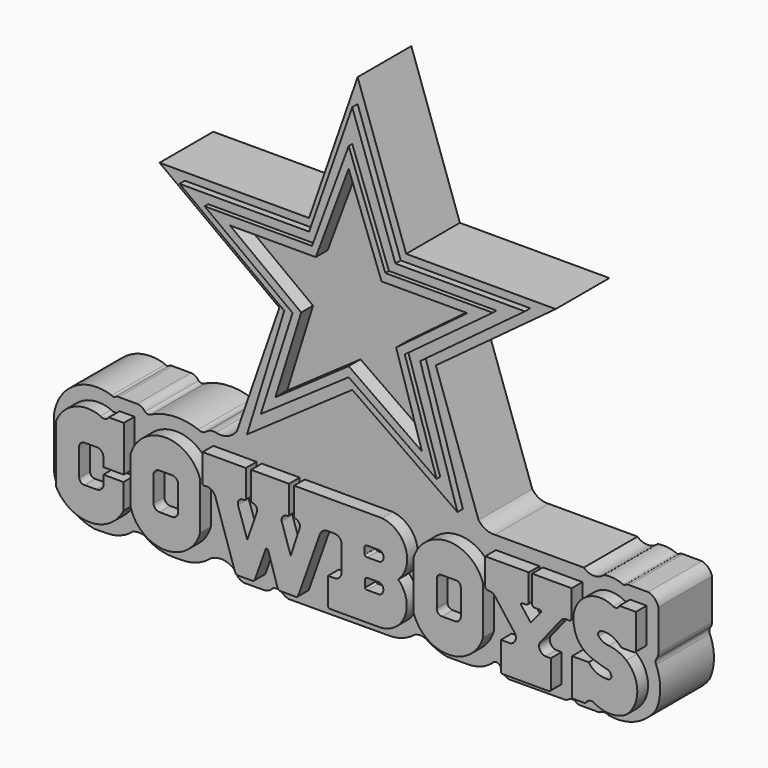
from build123d import *

# Parameters (mm, degrees)
F5_DEPTH = 15
F6_DEPTH = 18
F7_DEPTH = 16.5
F8_DEPTH = 17.5
F9_START = 14.2
F9_DEPTH = 19.6


with BuildPart() as f5:
    # F3 (on Front) → F5 (new body)
    with BuildSketch(Plane.XZ):
        with BuildLine():
            Line((-44.2463718355, 21.1842991412), (-17.4745600671, 1.4069249155))
            Line((-17.4745600671, 1.4069249155), (-26.9419997931, -25.9260144085))
            ThreePointArc((-26.9419997931, -25.9260144085), (-29.0212499495, -27.6129881973), (-31.6936150193, -27.7792010456))
            ThreePointArc((-31.6936150193, -27.7792010456), (-32.9350414356, -27.8369391774), (-34.0111888945, -28.4585338086))
            ThreePointArc((-34.0111888945, -28.4585338086), (-34.7994435579, -28.6722011969), (-35.5876982212, -28.4585338086))
            ThreePointArc((-35.5876982212, -28.4585338086), (-40.8345683921, -27.6309623365), (-46.0010245442, -28.8647580892))
            ThreePointArc((-46.0010245442, -28.8647580892), (-46.7619951814, -29.1214279975), (-47.5229658186, -28.8647580892))
            ThreePointArc((-47.5229658186, -28.8647580892), (-48.2576121674, -28.1309045613), (-49.2606647313, -27.8623308986))
            Line((-49.2606647313, -27.8623308986), (-53.3446930349, -27.8623308986))
            ThreePointArc((-53.3446930349, -27.8623308986), (-53.7626940773, -27.8805112246), (-54.1413202882, -28.0585493892))
            ThreePointArc((-54.1413202882, -28.0585493892), (-54.5440483838, -28.1958925763), (-54.9467764795, -28.0585493892))
            ThreePointArc((-54.9467764795, -28.0585493892), (-63.2106117888, -28.8825229163), (-67.8027644753, -35.8022078872))
            Line((-67.8027644753, -35.8022078872), (-67.8027644753, -47.2518876195))
            ThreePointArc((-67.8027644753, -47.2518876195), (-67.4575479524, -48.8194648934), (-66.792331636, -50.2802729607))
            ThreePointArc((-66.792331636, -50.2802729607), (-63.3486567659, -53.7234123447), (-58.8392931293, -55.5618206297))
            Line((-58.8392931293, -55.5618206297), (-56.1703634099, -55.5314470928))
            ThreePointArc((-56.1703634099, -55.5314470928), (-52.9987397707, -54.9658834712), (-50.2290800214, -53.3202700317))
            ThreePointArc((-50.2290800214, -53.3202700317), (-48.9520251918, -53.036502976), (-47.6566031575, -53.2189160585))
            ThreePointArc((-47.6566031575, -53.2189160585), (-44.5746266962, -54.8202808439), (-41.1440137075, -55.3623533538))
            Line((-41.1440137075, -55.3623533538), (-39.5355157692, -55.3550728315))
            ThreePointArc((-39.5355157692, -55.3550728315), (-35.9503744169, -54.7625582206), (-32.8145548701, -52.9265441))
            ThreePointArc((-32.8145548701, -52.9265441), (-29.9678585209, -52.2913183396), (-27.352778241, -53.5830408335))
            ThreePointArc((-27.352778241, -53.5830408335), (-26.6109824256, -54.6861544233), (-25.4273346215, -55.2912151638))
            Line((-25.4273346215, -55.2912151638), (-20.7628569958, -55.2701024024))
            ThreePointArc((-20.7628569958, -55.2701024024), (-19.766352618, -54.9621039886), (-18.9678873867, -54.2910322547))
            ThreePointArc((-18.9678873867, -54.2910322547), (-18.0389201269, -54.065479917), (-17.109952867, -54.2910322547))
            ThreePointArc((-17.109952867, -54.2910322547), (-16.3671524458, -54.8406705745), (-15.5369723561, -55.2464485521))
            Line((-15.5369723561, -55.2464485521), (7.067101202, -55.1441360425))
            ThreePointArc((7.067101202, -55.1441360425), (10.0267122759, -54.6373267992), (12.6501927152, -53.1766749918))
            ThreePointArc((12.6501927152, -53.1766749918), (14.0218110755, -52.809419989), (15.3934294358, -53.1766749918))
            ThreePointArc((15.3934294358, -53.1766749918), (17.598221994, -54.3574916083), (19.9909692867, -55.0856389148))
            Line((19.9909692867, -55.0856389148), (24.403905933, -55.0656646999))
            ThreePointArc((24.403905933, -55.0656646999), (27.4480765658, -54.5813036637), (30.102904886, -53.0149489641))
            ThreePointArc((30.102904886, -53.0149489641), (30.9931114316, -52.5660694909), (31.8833179772, -53.0149489641))
            ThreePointArc((31.8833179772, -53.0149489641), (32.5488101456, -54.2925286105), (33.7902766783, -55.0231792982))
            Line((33.7902766783, -55.0231792982), (46.1623184383, -54.9671798944))
            ThreePointArc((46.1623184383, -54.9671798944), (46.7414950816, -54.8563344698), (47.2416616976, -54.543979466))
            ThreePointArc((47.2416616976, -54.543979466), (47.9723457247, -54.3463533606), (48.7030297518, -54.543979466))
            ThreePointArc((48.7030297518, -54.543979466), (49.1744320305, -54.8572306601), (49.7296415269, -54.9671798944))
            Line((49.7296415269, -54.9671798944), (53.2745718956, -54.9671798944))
            Line((53.2745718956, -54.9671798944), (53.7231452763, -54.9671798944))
            ThreePointArc((53.7231452763, -54.9671798944), (53.9803994303, -54.9391217786), (54.2255565524, -54.8562668264))
            ThreePointArc((54.2255565524, -54.8562668264), (55.1160853356, -54.579958108), (56.0066141188, -54.8562668264))
            ThreePointArc((56.0066141188, -54.8562668264), (62.0237797236, -54.1882307318), (66.6825696826, -50.3219366074))
            ThreePointArc((66.6825696826, -50.3219366074), (67.6059489193, -45.8939634264), (66.6825696826, -41.4659902453))
            ThreePointArc((66.6825696826, -41.4659902453), (66.5757001786, -40.9017279744), (66.6825696826, -40.3374657035))
            ThreePointArc((66.6825696826, -40.3374657035), (67.0450926713, -39.7575914562), (67.1717226505, -39.0855483711))
            Line((67.1717226505, -39.0855483711), (67.1717226505, -29.978139326))
            ThreePointArc((67.1717226505, -29.978139326), (66.3508856526, -28.5533882369), (64.9142935872, -27.7534555644))
            Line((64.9142935872, -27.7534555644), (60.6640912592, -27.7534555644))
            ThreePointArc((60.6640912592, -27.7534555644), (60.1656942741, -27.8256499285), (59.7269758582, -28.0729103833))
            ThreePointArc((59.7269758582, -28.0729103833), (59.5049038529, -28.1377310119), (59.2828318477, -28.0729103833))
            ThreePointArc((59.2828318477, -28.0729103833), (57.1850537701, -27.5177004874), (55.0171397626, -27.6129881973))
            ThreePointArc((55.0171397626, -27.6129881973), (52.7711641043, -28.4908563273), (50.525188446, -27.6129881973))
            Line((50.525188446, -27.6129881973), (30.6794699281, -27.6129881973))
            ThreePointArc((30.6794699281, -27.6129881973), (28.6262979704, -27.249333795), (27.0149055868, -25.9260144085))
            Line((27.0149055868, -25.9260144085), (17.4745600671, 1.4069249155))
            Line((17.4745600671, 1.4069249155), (44.2463718355, 21.1842991412))
            Line((44.2463718355, 21.1842991412), (10.8419051394, 21.1842991412))
            Line((10.8419051394, 21.1842991412), (0, 52.4180755019))
            Line((0, 52.4180755019), (-10.8419051394, 21.1842991412))
            Line((-10.8419051394, 21.1842991412), (-44.2463718355, 21.1842991412))
        make_face()
    extrude(amount=F5_DEPTH)

    # F4 (on Front) → F6 (join)
    with BuildSketch(Plane.XZ):
        with BuildLine():
            Line((-49.8352535069, -40.7587550581), (-49.8352535069, -30.5781438947))
            Line((-49.8352535069, -30.5781438947), (-53.1657449901, -30.5781438947))
            ThreePointArc((-53.1657449901, -30.5781438947), (-54.0305606764, -31.1585754602), (-55.0452843308, -30.9237502515))
            ThreePointArc((-55.0452843308, -30.9237502515), (-60.9550469183, -30.9852944242), (-65.0318264961, -35.2641902864))
            Line((-65.0318264961, -35.2641902864), (-65.0318264961, -47.8973351419))
            ThreePointArc((-65.0318264961, -47.8973351419), (-57.4713386595, -52.5908718293), (-49.9108508229, -47.8973351419))
            Line((-49.9108508229, -47.8973351419), (-49.9108508229, -42.2384478152))
            Line((-49.9108508229, -42.2384478152), (-54.3915741146, -42.2384478152))
            Line((-54.3915741146, -42.2384478152), (-54.3915741146, -44.5529930294))
            ThreePointArc((-54.3915741146, -44.5529930294), (-55.010072907, -45.3423955738), (-55.9642799199, -45.6509180367))
            Line((-55.9642799199, -45.6509180367), (-58.5686191916, -45.6509180367))
            ThreePointArc((-58.5686191916, -45.6509180367), (-59.4253745344, -45.3749631367), (-59.7921796143, -44.5529930294))
            Line((-59.7921796143, -44.5529930294), (-59.7921796143, -38.8124622405))
            ThreePointArc((-59.7921796143, -38.8124622405), (-59.5353865675, -37.7737706851), (-58.5686191916, -37.315312773))
            Line((-58.5686191916, -37.315312773), (-55.7739436626, -37.315312773))
            ThreePointArc((-55.7739436626, -37.315312773), (-54.7802120131, -37.7884969375), (-54.3766021729, -38.8124622405))
            Line((-54.3766021729, -38.8124622405), (-54.3766021729, -40.7587550581))
            Line((-54.3766021729, -40.7587550581), (-49.8352535069, -40.7587550581))
        make_face()
        with BuildLine():
            Line((-48.2836402953, -36.0589027405), (-48.2836402953, -46.676017344))
            ThreePointArc((-48.2836402953, -46.676017344), (-40.5411180109, -52.5809516394), (-32.7985957265, -46.676017344))
            Line((-32.7985957265, -46.676017344), (-32.7985957265, -36.0589027405))
            ThreePointArc((-32.7985957265, -36.0589027405), (-40.5411180109, -30.419365884), (-48.2836402953, -36.0589027405))
        make_face()
        with BuildLine():
            ThreePointArc((-41.8587699533, -45.5269701779), (-42.797064922, -45.1306386038), (-43.1846678257, -44.1887043417))
            Line((-43.1846678257, -44.1887043417), (-43.1846678257, -38.4219400585))
            ThreePointArc((-43.1846678257, -38.4219400585), (-42.7161356095, -37.6459974815), (-41.8587699533, -37.3518317938))
            Line((-41.8587699533, -37.3518317938), (-39.0310846269, -37.3518317938))
            ThreePointArc((-39.0310846269, -37.3518317938), (-38.181312834, -37.6529512336), (-37.710737437, -38.4219400585))
            Line((-37.710737437, -38.4219400585), (-37.710737437, -44.1887043417))
            ThreePointArc((-37.710737437, -44.1887043417), (-38.0779683135, -45.1544239649), (-39.0310846269, -45.5532249184))
            Line((-39.0310846269, -45.5532249184), (-41.8587699533, -45.5269701779))
        make_face(mode=Mode.SUBTRACT)
        with BuildLine():
            Line((-22.5591659546, -30.5824857205), (-32.2320722044, -30.5824857205))
            Line((-32.2320722044, -30.5824857205), (-32.2320722044, -36.7723070085))
            ThreePointArc((-32.2320722044, -36.7723070085), (-32.0831923749, -37.0453111159), (-31.7730605602, -37.0679982007))
            ThreePointArc((-31.7730605602, -37.0679982007), (-30.4106121781, -37.2749655013), (-29.4400043786, -38.2532402873))
            Line((-29.4400043786, -38.2532402873), (-24.960597977, -51.8818721175))
            ThreePointArc((-24.960597977, -51.8818721175), (-24.7704796617, -52.155749655), (-24.4615487754, -52.2811114788))
            Line((-24.4615487754, -52.2811114788), (-21.1179181933, -52.2811114788))
            ThreePointArc((-21.1179181933, -52.2811114788), (-20.7785276668, -52.1707473245), (-20.5689631402, -51.8818721175))
            Line((-20.5689631402, -51.8818721175), (-18.1485731155, -45.1197512448))
            ThreePointArc((-18.1485731155, -45.1197512448), (-17.8740965202, -44.9264662828), (-17.599619925, -45.1197512448))
            Line((-17.599619925, -45.1197512448), (-15.4527751729, -51.8818721175))
            ThreePointArc((-15.4527751729, -51.8818721175), (-15.2958027669, -52.1342930574), (-15.0373438373, -52.2811114788))
            Line((-15.0373438373, -52.2811114788), (-11.3874841481, -52.2811114788))
            ThreePointArc((-11.3874841481, -52.2811114788), (-11.0599731587, -52.1697651575), (-10.868194513, -51.8818721175))
            Line((-10.868194513, -51.8818721175), (-6.0303099453, -38.2360257208))
            ThreePointArc((-6.0303099453, -38.2360257208), (-5.4872722566, -37.4464935206), (-4.6244864352, -37.0295383036))
            Line((-4.6244864352, -37.0295383036), (-2.5996803306, -37.0295383036))
            ThreePointArc((-2.5996803306, -37.0295383036), (-1.6929869326, -37.461027708), (-1.1728741229, -38.3199565113))
            Line((-1.1728741229, -38.3199565113), (-1.1728741229, -44.1740602255))
            ThreePointArc((-1.1728741229, -44.1740602255), (-1.5303572774, -45.1805591575), (-2.4003470317, -45.8001978695))
            Line((-2.4003470317, -45.8001978695), (-4.2100669816, -45.8001978695))
            Line((-4.2100669816, -45.8001978695), (-4.2100669816, -51.9037544727))
            ThreePointArc((-4.2100669816, -51.9037544727), (-3.9936684677, -52.1056766212), (-3.7069148384, -52.17897892))
            Line((-3.7069148384, -52.17897892), (7.4441325851, -52.17897892))
            ThreePointArc((7.4441325851, -52.17897892), (12.9832883793, -48.1258565655), (11.4654814824, -41.4321050048))
            ThreePointArc((11.4654814824, -41.4321050048), (13.1371898558, -34.8206629416), (7.8224204481, -30.5476076901))
            Line((7.8224204481, -30.5476076901), (-11.7978015915, -30.5476076901))
            Line((-11.7978015915, -30.5476076901), (-11.7978015915, -36.7723070085))
            ThreePointArc((-11.7978015915, -36.7723070085), (-11.5899299676, -36.9348642697), (-11.3310078159, -36.9858033955))
            ThreePointArc((-11.3310078159, -36.9858033955), (-10.6224050284, -37.5588907524), (-10.5450050905, -38.4669415653))
            Line((-10.5450050905, -38.4669415653), (-12.554413639, -44.5750616491))
            Line((-12.554413639, -44.5750616491), (-14.5506570116, -38.4669415653))
            ThreePointArc((-14.5506570116, -38.4669415653), (-14.328719827, -37.4395073706), (-13.3805479854, -36.9858033955))
            ThreePointArc((-13.3805479854, -36.9858033955), (-13.1273890835, -36.9428652527), (-12.9354437813, -36.7723070085))
            Line((-12.9354437813, -36.7723070085), (-12.9354437813, -30.5476076901))
            Line((-12.9354437813, -30.5476076901), (-21.3904660195, -30.5476076901))
            Line((-21.3904660195, -30.5476076901), (-21.3904660195, -36.7723070085))
            ThreePointArc((-21.3904660195, -36.7723070085), (-21.2135397589, -36.9489325567), (-20.9662746638, -36.9858033955))
            ThreePointArc((-20.9662746638, -36.9858033955), (-20.1843770687, -37.5228118756), (-20.0929380953, -38.4669415653))
            Line((-20.0929380953, -38.4669415653), (-22.2513265908, -44.5750616491))
            Line((-22.2513265908, -44.5750616491), (-24.3250038475, -38.4669415653))
            ThreePointArc((-24.3250038475, -38.4669415653), (-24.108698404, -37.4026078265), (-23.1057684869, -36.9858033955))
            ThreePointArc((-23.1057684869, -36.9858033955), (-22.8006175656, -36.9605980439), (-22.5591659546, -36.7723070085))
            Line((-22.5591659546, -36.7723070085), (-22.5591659546, -30.5824857205))
        make_face()
        with BuildLine():
            ThreePointArc((4.0348642506, -43.7684990466), (4.2453094723, -43.4737705775), (4.5889057219, -43.3593429625))
            Line((4.5889057219, -43.3593429625), (7.3181060143, -43.340627104))
            ThreePointArc((7.3181060143, -43.340627104), (8.1545316128, -44.5512291044), (7.3181060143, -45.7618311048))
            Line((7.3181060143, -45.7618311048), (4.5929183124, -45.7618311048))
            ThreePointArc((4.5929183124, -45.7618311048), (4.2652492172, -45.7160315278), (4.0348642506, -45.4785712063))
            Line((4.0348642506, -45.4785712063), (4.0348642506, -43.7684990466))
        make_face(mode=Mode.SUBTRACT)
        with BuildLine():
            ThreePointArc((4.5889057219, -39.3379442394), (4.2155637871, -39.2635335334), (3.989007324, -38.9576032758))
            Line((3.989007324, -38.9576032758), (3.989007324, -37.3519919813))
            ThreePointArc((3.989007324, -37.3519919813), (4.2300295361, -37.0801496526), (4.5889057219, -37.0236001909))
            Line((4.5889057219, -37.0236001909), (7.3181060143, -37.0236001909))
            ThreePointArc((7.3181060143, -37.0236001909), (8.2136145166, -38.1714142859), (7.3181060143, -39.3192283809))
            Line((7.3181060143, -39.3192283809), (4.5889057219, -39.3379442394))
        make_face(mode=Mode.SUBTRACT)
        with BuildLine():
            Line((14.8730520159, -36.0589027405), (14.8730520159, -46.7453598976))
            ThreePointArc((14.8730520159, -46.7453598976), (22.6725905231, -52.550531411), (30.4222293198, -46.6789118946))
            Line((30.4222293198, -46.6789118946), (30.4222293198, -36.0589027405))
            ThreePointArc((30.4222293198, -36.0589027405), (22.6476406679, -30.3086699682), (14.8730520159, -36.0589027405))
        make_face()
        with BuildLine():
            ThreePointArc((21.2145764381, -45.5185174942), (20.3403630452, -45.1171135222), (20.0885087252, -44.1887043417))
            Line((20.0885087252, -44.1887043417), (20.0885087252, -38.4128801525))
            ThreePointArc((20.0885087252, -38.4128801525), (20.4211134937, -37.6602607067), (21.2015490979, -37.3995266855))
            Line((21.2015490979, -37.3995266855), (24.2416132241, -37.3995266855))
            ThreePointArc((24.2416132241, -37.3995266855), (25.0773204699, -37.627315801), (25.4422631115, -38.4128801525))
            Line((25.4422631115, -38.4128801525), (25.4422631115, -44.1887043417))
            ThreePointArc((25.4422631115, -44.1887043417), (25.1225988856, -45.0969525576), (24.2569297552, -45.5185174942))
            Line((24.2569297552, -45.5185174942), (21.2145764381, -45.5185174942))
        make_face(mode=Mode.SUBTRACT)
        with BuildLine():
            ThreePointArc((40.0886125863, -37.0942428708), (40.4735930721, -36.8526775398), (40.6237915158, -36.4237204194))
            Line((40.6237915158, -36.4237204194), (40.6237915158, -30.55662103))
            Line((40.6237915158, -30.55662103), (30.901171267, -30.55662103))
            Line((30.901171267, -30.55662103), (30.901171267, -36.4237204194))
            ThreePointArc((30.901171267, -36.4237204194), (31.0685566847, -36.8692061103), (31.4878821373, -37.0942428708))
            ThreePointArc((31.4878821373, -37.0942428708), (32.3046013247, -37.1420155277), (32.9963713884, -37.5787839293))
            Line((32.9963713884, -37.5787839293), (37.5897064805, -43.6157360673))
            ThreePointArc((37.5897064805, -43.6157360673), (37.5984158523, -44.9938780843), (36.5145690739, -45.8451285958))
            Line((36.5145690739, -45.8451285958), (34.4036817551, -45.8451285958))
            Line((34.4036817551, -45.8451285958), (34.4036817551, -52.0643554628))
            ThreePointArc((34.4036817551, -52.0643554628), (34.5417023397, -52.3609808844), (34.8575077951, -52.4464398623))
            Line((34.8575077951, -52.4464398623), (45.0575016439, -52.4464398623))
            ThreePointArc((45.0575016439, -52.4464398623), (45.3714937603, -52.3399270445), (45.5558747053, -52.0643554628))
            Line((45.5558747053, -52.0643554628), (45.5558747053, -45.8451285958))
            Line((45.5558747053, -45.8451285958), (44.3901084363, -45.8451285958))
            ThreePointArc((44.3901084363, -45.8451285958), (43.1529161879, -45.0721493882), (43.0692397058, -43.6157360673))
            Line((43.0692397058, -43.6157360673), (47.8374958038, -37.5787839293))
            ThreePointArc((47.8374958038, -37.5787839293), (48.69620385, -37.095706006), (49.6814660728, -37.0942428708))
            ThreePointArc((49.6814660728, -37.0942428708), (50.0795428586, -36.8603392854), (50.2296760678, -36.4237204194))
            Line((50.2296760678, -36.4237204194), (50.2296760678, -30.55662103))
            Line((50.2296760678, -30.55662103), (41.388887912, -30.55662103))
            Line((41.388887912, -30.55662103), (41.388887912, -36.4237204194))
            ThreePointArc((41.388887912, -36.4237204194), (41.53594485, -36.9112751327), (42.0111902058, -37.0942428708))
            Line((42.0111902058, -37.0942428708), (43.0927835405, -37.0942428708))
            ThreePointArc((43.0927835405, -37.0942428708), (43.373161095, -37.2566578725), (43.3381609619, -37.5787839293))
            Line((43.3381609619, -37.5787839293), (43.2940386236, -37.6327671111))
            Line((43.2940386236, -37.6327671111), (41.0715416074, -40.2800105512))
            Line((41.0715416074, -40.2800105512), (38.962546736, -37.5787839293))
            ThreePointArc((38.962546736, -37.5787839293), (38.943989714, -37.221306593), (39.2786376178, -37.0942428708))
            Line((39.2786376178, -37.0942428708), (40.0886125863, -37.0942428708))
        make_face()
        with BuildLine():
            ThreePointArc((63.9813914895, -38.6406630278), (64.3087189877, -38.5634926138), (64.567103982, -38.3482351899))
            Line((64.567103982, -38.3482351899), (64.567103982, -30.5394064635))
            Line((64.567103982, -30.5394064635), (60.8652420342, -30.5394064635))
            ThreePointArc((60.8652420342, -30.5394064635), (60.2886131334, -31.1440571516), (59.4543479383, -31.0981776565))
            ThreePointArc((59.4543479383, -31.0981776565), (56.5766748041, -30.3418203942), (53.6990016699, -31.0981776565))
            ThreePointArc((53.6990016699, -31.0981776565), (51.0856395095, -33.9972744322), (50.7654510438, -37.8872491419))
            ThreePointArc((50.7654510438, -37.8872491419), (51.866575426, -40.6756231199), (54.1460178792, -42.6228381693))
            ThreePointArc((54.1460178792, -42.6228381693), (56.1315096199, -43.3491588247), (58.1678636372, -43.9174734056))
            ThreePointArc((58.1678636372, -43.9174734056), (58.8423712544, -44.3824288137), (59.1212175786, -45.152746141))
            ThreePointArc((59.1212175786, -45.152746141), (58.5743576601, -45.7478074719), (57.7684752643, -45.8086952567))
            ThreePointArc((57.7684752643, -45.8086952567), (55.6514180909, -45.3102720952), (54.0212728083, -43.8704863191))
            Line((54.0212728083, -43.8704863191), (50.3104813397, -43.8704863191))
            Line((50.3104813397, -43.8704863191), (50.3104813397, -51.8070869148))
            ThreePointArc((50.3104813397, -51.8070869148), (50.4234581719, -52.0783290025), (50.695579499, -52.1891713142))
            Line((50.695579499, -52.1891713142), (52.9545900737, -52.1714226823))
            ThreePointArc((52.9545900737, -52.1714226823), (53.2436662792, -52.1003181831), (53.4698441625, -51.906760782))
            ThreePointArc((53.4698441625, -51.906760782), (54.2628409432, -51.3430936888), (55.2307553589, -51.4416135848))
            ThreePointArc((55.2307553589, -51.4416135848), (58.8273331523, -52.4742591455), (62.4239109457, -51.4416135848))
            ThreePointArc((62.4239109457, -51.4416135848), (64.8792463729, -46.0924319923), (62.4239109457, -40.7432503998))
            ThreePointArc((62.4239109457, -40.7432503998), (60.584739001, -39.6697728603), (58.520000428, -39.1484647989))
            ThreePointArc((58.520000428, -39.1484647989), (57.2859580745, -38.8270030868), (56.2607198954, -38.0686596036))
            ThreePointArc((56.2607198954, -38.0686596036), (56.1909715203, -37.304823994), (56.7590892315, -36.7895066738))
            ThreePointArc((56.7590892315, -36.7895066738), (58.5841094898, -36.8636055736), (60.2310746908, -37.65334934))
            ThreePointArc((60.2310746908, -37.65334934), (60.742392002, -38.06992059), (61.2112060189, -38.5338068008))
            ThreePointArc((61.2112060189, -38.5338068008), (61.4141436828, -38.6135287252), (61.6304837167, -38.6406630278))
            Line((61.6304837167, -38.6406630278), (63.9813914895, -38.6406630278))
        make_face()
    extrude(amount=F6_DEPTH)

    # F2 (on Front) → F7 (join)
    with BuildSketch(Plane.XZ):
        Polygon((-23.5042460263, -24.8825121671), (0, -8.481762372), (23.5042460263, -24.8825121671), (15.1832792908, 2.1304872353), (38.5784655809, 19.495986402), (9.6359681338, 19.495986402), (0, 47.11195454), (-9.6359681338, 19.495986402), (-38.5784655809, 19.495986402), (-15.1832792908, 2.1304872353), align=None)
    extrude(amount=F7_DEPTH)

    # F1 (on Front) → F8 (join)
    with BuildSketch(Plane.XZ):
        Polygon((-19.6452476084, -19.2146040499), (0, -5.5875130929), (19.6452476084, -19.2146040499), (12.5302178785, 2.9746431392), (32.1869961917, 17.5664853305), (8.1888418645, 17.5664853305), (0, 39.8763269186), (-8.1888418645, 17.5664853305), (-32.1869961917, 17.5664853305), (-12.5302178785, 2.9746431392), align=None)
    extrude(amount=F8_DEPTH)

    # F0 (on Front) → F9 (cut)
    with BuildSketch(Plane.XZ.offset(F9_START)):
        Polygon((-16.3892172277, -14.8732317612), (0, -3.4168250859), (16.3892172277, -14.8732317612), (10.6007177383, 3.6982055753), (26.5190899372, 15.6369861215), (7.3446859606, 15.6369861215), (0, 35.4143604636), (-7.3446859606, 15.6369861215), (-26.5190899372, 15.6369861215), (-10.6007177383, 3.6982055753), align=None)
    extrude(amount=F9_DEPTH, mode=Mode.SUBTRACT)


solid = f5.part
